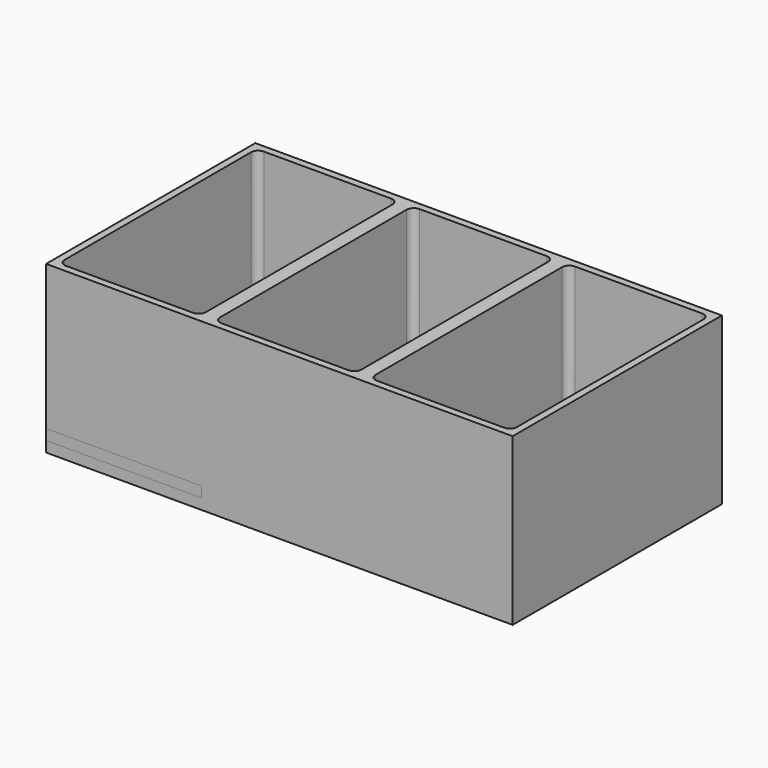
from build123d import *

# Parameters (mm, degrees)
SKETCH_W            = 132
SKETCH_H            = 74
PAD_DEPTH           = 47
SKETCH001_W         = 40
SKETCH001_H         = 70
POCKET_DEPTH        = 45
LINEARPATTERN_COUNT = 3
LINEARPATTERN_PITCH = 44
FILLET_R            = 5
FILLET003_R         = 2
SKETCH002_W         = 40
SKETCH002_H         = 70
PAD001_DEPTH        = 3
SKETCH003_W         = 44
SKETCH003_H         = 74
PAD002_DEPTH        = 3
SKETCH004_W         = 5
SKETCH004_H         = 30
PAD003_DEPTH        = 15
FILLET004_R         = 2


with BuildPart() as containerbody:
    # Sketch → Pad (new body)
    with BuildSketch(Plane.XY):
        Rectangle(SKETCH_W, SKETCH_H)
    extrude(amount=PAD_DEPTH)

    # Sketch001 → Pocket (cut)
    with BuildSketch(Plane.XY.offset(47)):
        with Locations((-44, 0)):
            Rectangle(SKETCH001_W, SKETCH001_H)
    pocket = extrude(amount=-POCKET_DEPTH, mode=Mode.SUBTRACT)

    # LinearPattern: Pocket ×3
    with Locations(*[(i * LINEARPATTERN_PITCH, 0, 0) for i in range(1, LINEARPATTERN_COUNT)]):
        add(pocket, mode=Mode.SUBTRACT)

    # Fillet
    fillet_edges = [containerbody.edges().sort_by_distance(p)[0] for p in [
        (-64, 0, 2),
        (-44, -35, 2),
        (-24, 0, 2),
        (-44, 35, 2),
        (-20, 0, 2),
        (0, -35, 2),
        (20, 0, 2),
        (0, 35, 2),
        (24, 0, 2),
        (44, -35, 2),
        (64, 0, 2),
        (44, 35, 2),
    ]]
    fillet(fillet_edges, radius=FILLET_R)

    # Fillet003
    fillet003_edges = [containerbody.edges().sort_by_distance(p)[0] for p in [
        (-64, 35, 27),
        (-20, 35, 27),
        (24, 35, 27),
        (-24, 35, 27),
        (20, 35, 27),
        (64, 35, 27),
        (64, -35, 27),
        (20, -35, 27),
        (-24, -35, 27),
        (24, -35, 27),
        (-20, -35, 27),
        (-64, -35, 27),
    ]]
    fillet(fillet003_edges, radius=FILLET003_R)


with BuildPart() as plugbody:
    # Sketch002 → Pad001 (new body)
    with BuildSketch(Plane.XY):
        with Locations((-44, 0)):
            Rectangle(SKETCH002_W, SKETCH002_H)
    extrude(amount=PAD001_DEPTH)

    # Sketch003 → Pad002 (join)
    with BuildSketch(Plane.XY.offset(3)):
        with Locations((-44, 0)):
            Rectangle(SKETCH003_W, SKETCH003_H)
    extrude(amount=PAD002_DEPTH)

    # Sketch004 → Pad003 (join)
    with BuildSketch(Plane.XY.offset(6)):
        with Locations((-44, 0)):
            Rectangle(SKETCH004_W, SKETCH004_H)
    extrude(amount=PAD003_DEPTH)

    # Fillet004
    fillet004_edges = [plugbody.edges().sort_by_distance(p)[0] for p in [
        (-64, 35, 1.5),
        (-24, 35, 1.5),
        (-64, -35, 1.5),
        (-24, -35, 1.5),
    ]]
    fillet(fillet004_edges, radius=FILLET004_R)


solid = Compound([containerbody.part, plugbody.part])
